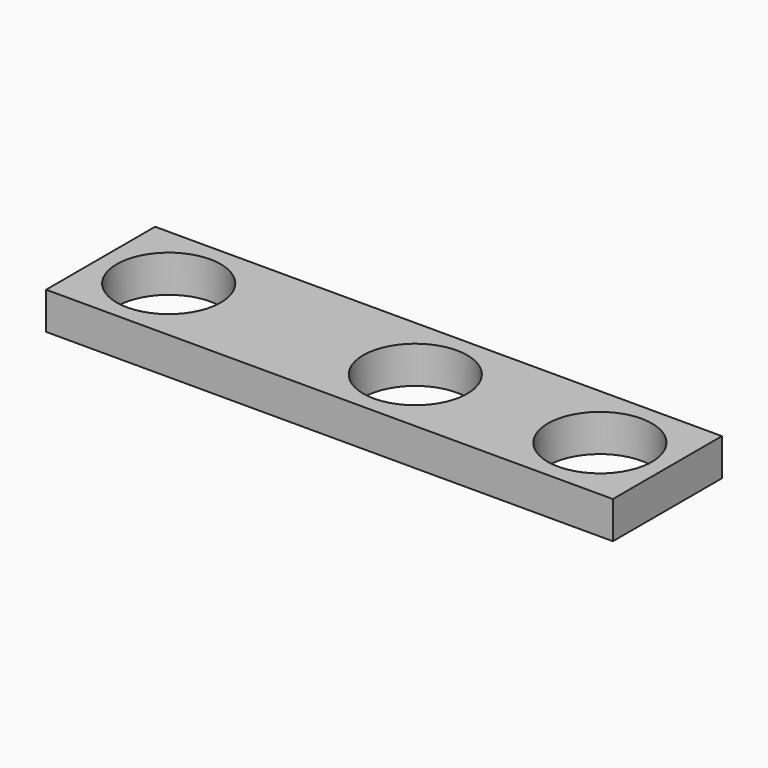
from build123d import *

# Parameters (mm, degrees)
F1_DEPTH = 3


with BuildPart() as f1:
    # F0 (on Top) → F1 (new body)
    with BuildSketch(Plane.XY):
        Polygon((22.875, -5.5), (22.875, 5.5), (-22.875, 5.5), (-22.875, 0), (-22.875, -5.5), align=None)
        with BuildLine():
            ThreePointArc((-13.175, 0), (-17.375, -4.2), (-21.575, 0))
            ThreePointArc((-21.575, 0), (-17.375, 4.2), (-13.175, 0))
        make_face(mode=Mode.SUBTRACT)
        with BuildLine():
            ThreePointArc((6.725, 0), (2.525, -4.2), (-1.675, 0))
            ThreePointArc((-1.675, 0), (2.525, 4.2), (6.725, 0))
        make_face(mode=Mode.SUBTRACT)
        with BuildLine():
            ThreePointArc((21.625, 0), (17.425, -4.2), (13.225, 0))
            ThreePointArc((13.225, 0), (17.425, 4.2), (21.625, 0))
        make_face(mode=Mode.SUBTRACT)
    extrude(amount=F1_DEPTH)


solid = f1.part
